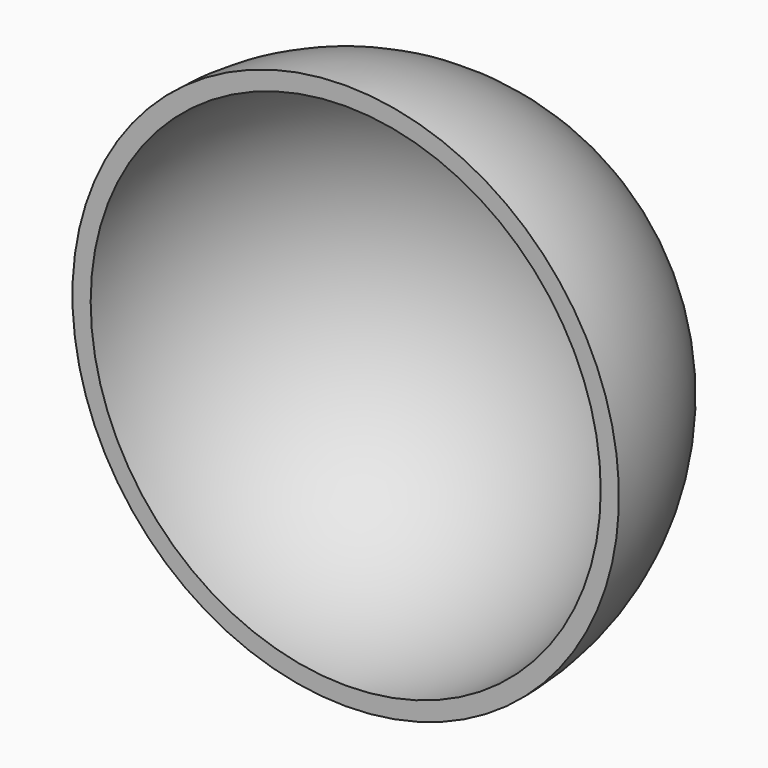
from build123d import *

# Parameters (mm, degrees)
SPHERE001_ANGLE = 180
SPHERE_ANGLE    = 180


with BuildPart() as inner:
    # Sphere001 → Sphere001 (revolve)
    with BuildSketch(Plane.XZ):
        with BuildLine():
            ThreePointArc((0, -28), (28, 0), (0, 28))
            Line((0, 28), (0, -28))
        make_face()
    revolve(axis=Axis((0, 0, 0), (0, 0, 1)), revolution_arc=SPHERE001_ANGLE)


with BuildPart() as cut:
    # Sphere → Sphere (revolve)
    with BuildSketch(Plane.XZ):
        with BuildLine():
            ThreePointArc((0, -30), (30, 0), (0, 30))
            Line((0, 30), (0, -30))
        make_face()
    revolve(axis=Axis((0, 0, 0), (0, 0, 1)), revolution_arc=SPHERE_ANGLE)

    # Cut: cut Inner
    add(inner.part, mode=Mode.SUBTRACT)


solid = cut.part
